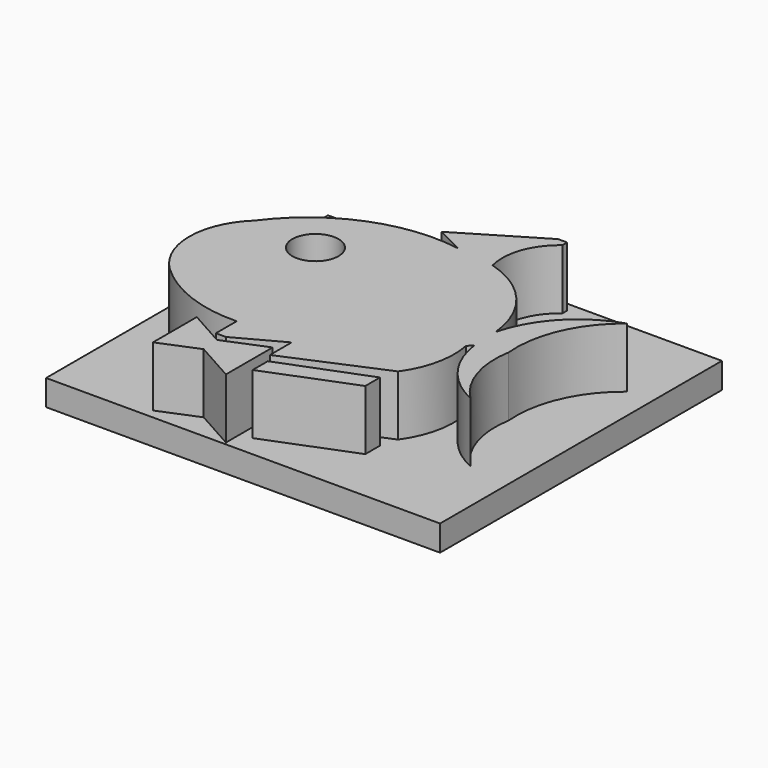
from build123d import *

# Parameters (mm, degrees)
F0_R     = 6.84854
F1_DEPTH = 25.4
F2_W     = 116.754242
F2_H     = 104.40649
F3_DEPTH = 7.62


with BuildPart() as f1:
    # F0 (on Top) → F1 (new body)
    with BuildSketch(Plane.XY):
        with BuildLine():
            ThreePointArc((-3.153183, 31.398926), (-28.513723, 28.595728), (-48.620041, 12.887421))
            ThreePointArc((-48.620041, 12.887421), (-55.439659, -2.731935), (-48.728291, -18.398108))
            ThreePointArc((-48.728291, -18.398108), (-35.604703, -26.555973), (-20.365635, -29.115295))
            Line((-20.365635, -29.115295), (-20.365635, -36.815457))
            Line((-20.365635, -36.815457), (-17.377498, -36.815457))
            Line((-17.377498, -36.815457), (-3.79575, -29.477451))
            Line((-3.79575, -29.477451), (-3.79575, -37.523508))
            Line((-3.79575, -37.523508), (24.526374, -25.422238))
            ThreePointArc((24.526374, -25.422238), (28.712286, -15.951299), (28.774692, -5.596751))
            Line((28.774692, -5.596751), (30.163217, -4.297651))
            ThreePointArc((30.163217, -4.297651), (35.32371, -16.889256), (45.933492, -25.410507))
            ThreePointArc((45.933492, -25.410507), (39.374816, -14.598225), (38.531117, -1.980387))
            ThreePointArc((38.531117, -1.980387), (41.085034, 13.79129), (50.889865, 26.406106))
            ThreePointArc((50.889865, 26.406106), (37.451818, 18.00207), (29.777009, 4.134618))
            ThreePointArc((29.777009, 4.134618), (23.035337, 20.239931), (8.382263, 29.733017))
            ThreePointArc((8.382263, 29.733017), (8.789069, 39.692289), (14.689191, 47.726039))
            Line((14.689191, 47.726039), (14.689191, 49.488384))
            Line((14.689191, 49.488384), (11.999472, 49.488384))
            Line((11.999472, 49.488384), (-11.373265, 35.484325))
            Line((-11.373265, 35.484325), (-3.153183, 31.398926))
        make_face()
        with Locations((-29.182959, 11.082074)):
            Circle(F0_R, mode=Mode.SUBTRACT)
        Polygon((-5.66357, -34.178648), (-18.068109, -39.286397), (-28.87902, -33.238407), (-28.87902, -49.478438), (-17.566271, -44.820248), (-5.66357, -51.479023), align=None)
        Polygon((23.143637, -30.421468), (-2.223191, -40.254213), (-2.223191, -45.888092), (23.143637, -35.874922), align=None)
    extrude(amount=F1_DEPTH)


with BuildPart() as f3:
    # F2 (on Top) → F3 (new body)
    with BuildSketch(Plane.XY):
        Rectangle(F2_W, F2_H)
    extrude(amount=F3_DEPTH)


solid = Compound([f1.part, f3.part])
